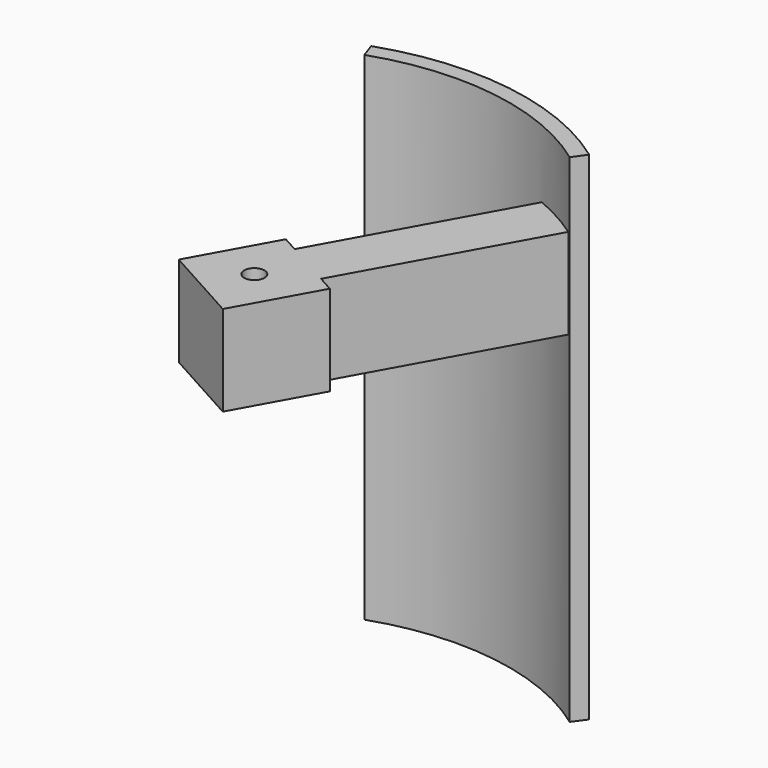
from build123d import *

# Parameters (mm, degrees)
PAD168_DEPTH              = 22
SKETCH247_W               = 4
SKETCH247_H               = 4
PAD167_DEPTH              = 13.5
SKETCH244_R               = 0.45
SKETCH244_W               = 0.8
SKETCH244_H               = 9.5
POCKET031_DEPTH           = 5
BODY041_PLACEMENT_ANGLE   = 90
FUSION004_PLACEMENT_ANGLE = 29


with BuildPart() as segment_wing004:
    # Sketch240 → Pad168 (new body)
    with BuildSketch(Plane.XY):
        with BuildLine():
            ThreePointArc((1.377124, 11.215772), (-3.957343, 10.584396), (-8.397537, 7.561176))
            Line((-8.397537, 7.561176), (-8.917738, 8.029567))
            ThreePointArc((1.462432, 11.910554), (-4.202489, 11.240066), (-8.917738, 8.029567))
            Line((1.377124, 11.215772), (1.462432, 11.910554))
        make_face()
    extrude(amount=PAD168_DEPTH)


with BuildPart() as segment_wing004_1:
    # Body044 placement: moved
    add(segment_wing004.part.moved(Location((0, 0, -9))))


with BuildPart() as segment_on004:
    # Sketch247 → Pad167 (new body)
    with BuildSketch(Plane.XY):
        with Locations((0, 6)):
            Rectangle(SKETCH247_W, SKETCH247_H)
    extrude(amount=PAD167_DEPTH)

    # Sketch244 (on Face1 of Pad167) → Pocket031 (cut)
    with BuildSketch(Plane(origin=(0, 8, 0), x_dir=(-1, 0, 0), z_dir=(0, 1, 0))):
        with Locations((0, 11.5)):
            Circle(SKETCH244_R)
        with Locations((-1.6, 4.75)):
            Rectangle(SKETCH244_W, SKETCH244_H)
        with Locations((1.6, 4.75)):
            Rectangle(SKETCH244_W, SKETCH244_H)
    extrude(amount=-POCKET031_DEPTH, mode=Mode.SUBTRACT)


with BuildPart() as segment_on004_1:
    # Body041 placement: moved
    add(segment_on004.part.moved(Location((0, 11.5, 2))).rotate(Axis((0, 11.5, 2), (1, 0, 0)), BODY041_PLACEMENT_ANGLE))

    # Fusion004: union Segment_Wing004
    add(segment_wing004_1.part)


with BuildPart() as segment_on004_2:
    # Fusion004 placement: moved
    add(segment_on004_1.part.rotate(Axis((0, 0, 0), (0, 0, -1)), FUSION004_PLACEMENT_ANGLE))


solid = segment_on004_2.part
